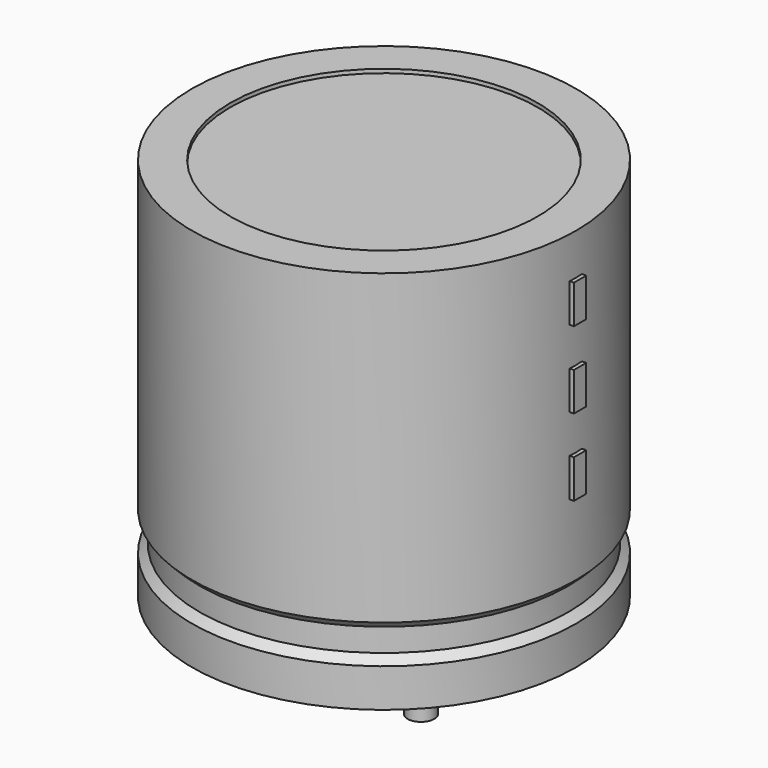
from build123d import *

# Parameters (mm, degrees)
SKETCH002_W  = 5.98
SKETCH002_H  = 12.74
SKETCH003_R  = 0.45
PAD_DEPTH    = 4.3
SKETCH004_W  = 0.52
SKETCH004_H  = 1.3
PAD001_DEPTH = 6.63


with BuildPart() as revolution:
    # Sketch → Revolution (revolve)
    with BuildSketch(Plane.XZ):
        Polygon((-5.25, 0.1), (-5.25, 1.4), (-4.99, 1.66), (-4.99, 2.44), (-5.25, 2.7), (-5.25, 13.1), (-3.95, 13.1), (-3.95, 0.1), align=None)
    revolve(axis=Axis((1.25, 0, 7.548619), (0, 0, -1)))


with BuildPart() as revolution001:
    # Sketch002 → Revolution001 (revolve)
    with BuildSketch(Plane.XZ):
        with Locations((-1.74, 6.6)):
            Rectangle(SKETCH002_W, SKETCH002_H)
    revolve(axis=Axis((1.25, 0, 4.680116), (0, 0, -1)))


with BuildPart() as pad:
    # Sketch003 → Pad (new body)
    with BuildSketch(Plane.XY.offset(1.3)):
        Circle(SKETCH003_R)
        with Locations((2.5, 0)):
            Circle(SKETCH003_R)
    extrude(amount=-PAD_DEPTH)


with BuildPart() as pad001:
    # Sketch004 → Pad001 (new body)
    with BuildSketch(Plane.YZ.offset(1.25)):
        with Locations((0, 5.85)):
            Rectangle(SKETCH004_W, SKETCH004_H)
        with Locations((0, 8.45)):
            Rectangle(SKETCH004_W, SKETCH004_H)
        with Locations((0, 11.05)):
            Rectangle(SKETCH004_W, SKETCH004_H)
    extrude(amount=PAD001_DEPTH)


solid = Compound([revolution.part, revolution001.part, pad.part, pad001.part])
